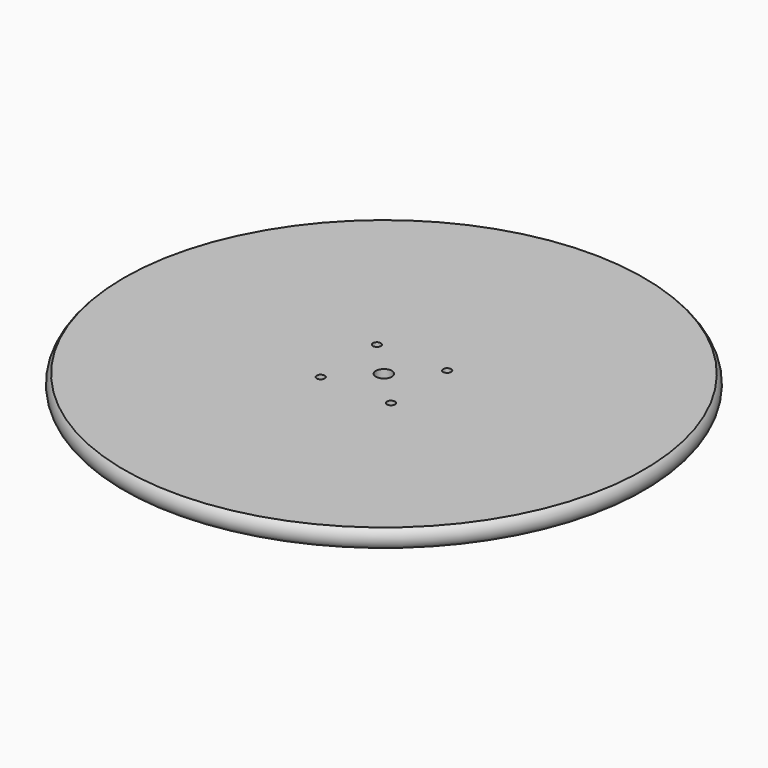
from build123d import *

# Parameters (mm, degrees)
SKETCH008_R    = 8
HOLE005_DEPTH  = 25
SKETCH009_R    = 4
HOLE006_DEPTH  = 10
HOLE006_TIPS_R = 4


with BuildPart() as part:
    # Sketch007 → Revolution001 (revolve)
    with BuildSketch(Plane.XZ):
        with BuildLine():
            Line((0, 9), (-259, 9))
            ThreePointArc((-259, 9), (-263, 0), (-259, -9))
            Line((0, -9), (-259, -9))
            Line((0, 9), (0, -9))
        make_face()
    revolve(axis=Axis((0, 0, 0), (0, 0, 1)))

    # Sketch008 (on Face1 of Revolution001) → Hole005 (cut)
    with BuildSketch(Plane(origin=(0, 0, 9), x_dir=(-1, 0, 0), z_dir=(0, 0, 1))):
        Circle(SKETCH008_R)
    extrude(amount=-HOLE005_DEPTH, mode=Mode.SUBTRACT)

    # Sketch009 (on Face1 of Hole005) → Hole006 (cut)
    with BuildSketch(Plane(origin=(0, 0, 9), x_dir=(-1, 0, 0), z_dir=(0, 0, 1))):
        with Locations((-35, 35)):
            Circle(SKETCH009_R)
        with Locations((35, 35)):
            Circle(SKETCH009_R)
        with Locations((-35, -35)):
            Circle(SKETCH009_R)
        with Locations((35, -35)):
            Circle(SKETCH009_R)
    extrude(amount=-HOLE006_DEPTH, mode=Mode.SUBTRACT)

    # Hole006 tips → Hole006 tip 1 section 0
    with BuildSketch(Plane(origin=(0, 0, -1), x_dir=(-1, 0, 0), z_dir=(0, 0, 1)), mode=Mode.PRIVATE) as hole006_tip_1_s0:
        with Locations((-35, 35)):
            Circle(HOLE006_TIPS_R)
    loft([hole006_tip_1_s0.sketch, Vertex(35, -35, -3.403442)], mode=Mode.SUBTRACT)

    # Hole006 tips → Hole006 tip 2 section 0
    with BuildSketch(Plane(origin=(0, 0, -1), x_dir=(-1, 0, 0), z_dir=(0, 0, 1)), mode=Mode.PRIVATE) as hole006_tip_2_s0:
        with Locations((35, 35)):
            Circle(HOLE006_TIPS_R)
    loft([hole006_tip_2_s0.sketch, Vertex(-35, -35, -3.403442)], mode=Mode.SUBTRACT)

    # Hole006 tips → Hole006 tip 3 section 0
    with BuildSketch(Plane(origin=(0, 0, -1), x_dir=(-1, 0, 0), z_dir=(0, 0, 1)), mode=Mode.PRIVATE) as hole006_tip_3_s0:
        with Locations((-35, -35)):
            Circle(HOLE006_TIPS_R)
    loft([hole006_tip_3_s0.sketch, Vertex(35, 35, -3.403442)], mode=Mode.SUBTRACT)

    # Hole006 tips → Hole006 tip 4 section 0
    with BuildSketch(Plane(origin=(0, 0, -1), x_dir=(-1, 0, 0), z_dir=(0, 0, 1)), mode=Mode.PRIVATE) as hole006_tip_4_s0:
        with Locations((35, -35)):
            Circle(HOLE006_TIPS_R)
    loft([hole006_tip_4_s0.sketch, Vertex(-35, 35, -3.403442)], mode=Mode.SUBTRACT)


solid = part.part
